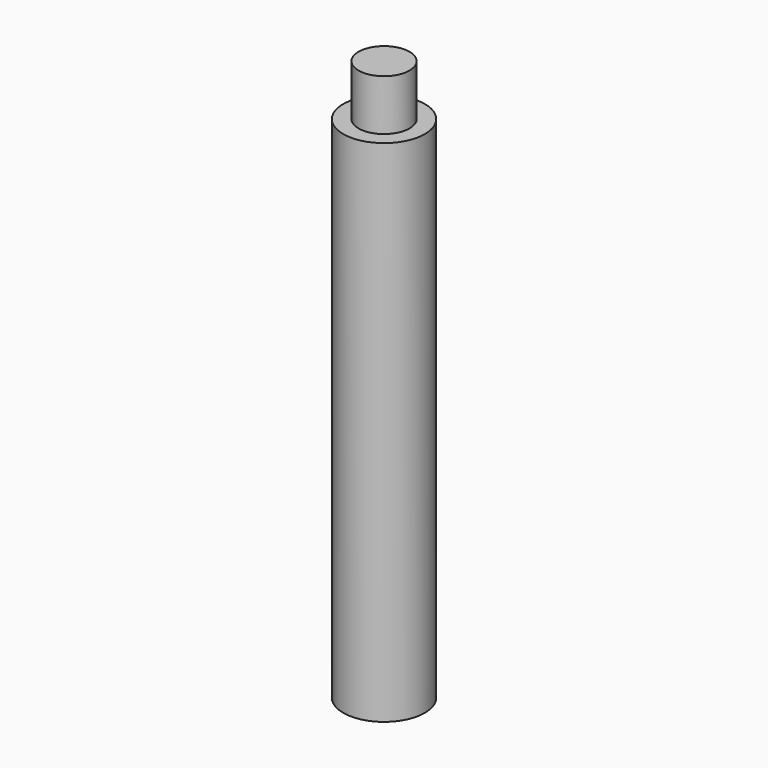
from build123d import *

# Parameters (mm, degrees)
SKETCH_R     = 8
PAD_DEPTH    = 100
SKETCH001_R  = 5
PAD001_DEPTH = 10
SKETCH002_R  = 5
POCKET_DEPTH = 10


with BuildPart() as part:
    # Sketch → Pad (new body)
    with BuildSketch(Plane.XY):
        Circle(SKETCH_R)
    extrude(amount=PAD_DEPTH)

    # Sketch001 (on Face3 of Pad) → Pad001 (join)
    with BuildSketch(Plane.XY.offset(100)):
        Circle(SKETCH001_R)
    extrude(amount=PAD001_DEPTH)

    # Sketch002 (on Face2 of Pad001) → Pocket (cut)
    with BuildSketch(Plane(origin=(0, 0, 0), x_dir=(1, 0, 0), z_dir=(0, 0, -1))):
        Circle(SKETCH002_R)
    extrude(amount=-POCKET_DEPTH, mode=Mode.SUBTRACT)


solid = part.part
